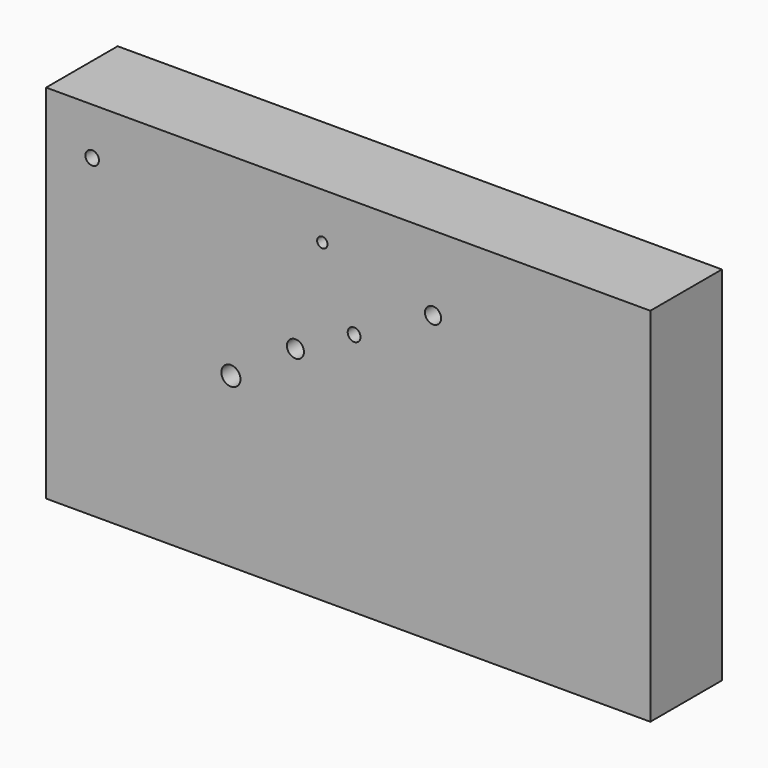
from build123d import *

# Parameters (mm, degrees)
F0_W     = 171.535503
F0_H     = 102.723059
F0_R     = 2.709496
F0_R_2   = 2.420653
F0_R_3   = 1.927216
F0_R_4   = 1.476047
F0_R_5   = 1.824039
F0_R_6   = 2.287676
F1_DEPTH = 25.4


with BuildPart() as f1:
    # F0 (on Front) → F1 (new body)
    with BuildSketch(Plane.XZ):
        with Locations((-27.94774, 3.6085)):
            Rectangle(F0_W, F0_H)
        with Locations((-61.250236, 0)):
            Circle(F0_R, mode=Mode.SUBTRACT)
        with Locations((-42.930003, 12.686395)):
            Circle(F0_R_2, mode=Mode.SUBTRACT)
        with Locations((-100.630425, 41.639712)):
            Circle(F0_R_3, mode=Mode.SUBTRACT)
        with Locations((-35.30122, 41.751936)):
            Circle(F0_R_4, mode=Mode.SUBTRACT)
        with Locations((-26.269879, 21.640748)):
            Circle(F0_R_5, mode=Mode.SUBTRACT)
        with Locations((-3.868381, 33.747517)):
            Circle(F0_R_6, mode=Mode.SUBTRACT)
    extrude(amount=F1_DEPTH)


solid = f1.part
